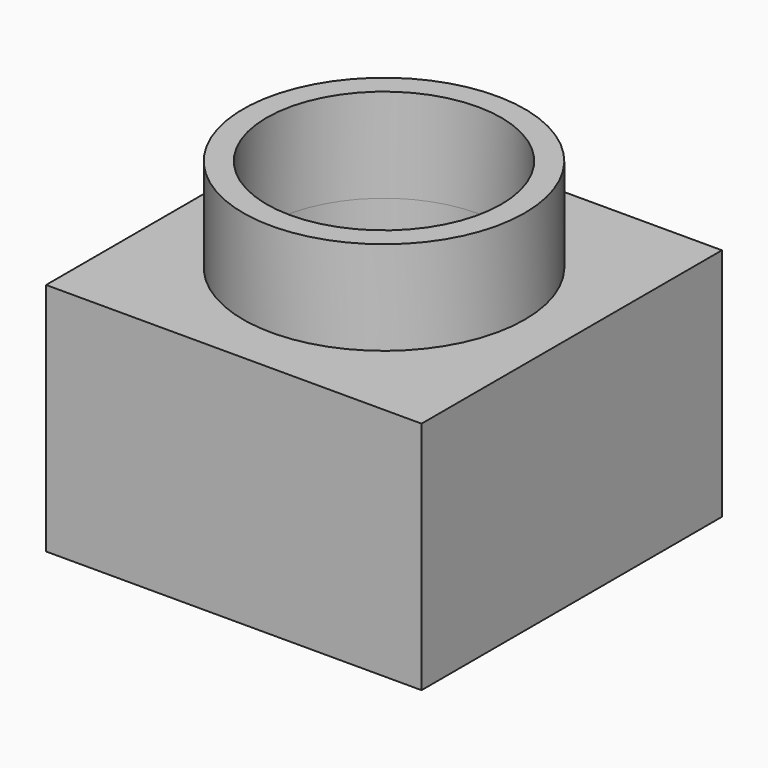
from build123d import *

# Parameters (mm, degrees)
F0_W      = 101.6
F0_H      = 101.6
F1_DEPTH  = 63.5
F2_R      = 38.1
F2_R_2    = 31.75
F3_DEPTH  = 25.4
F3_FACE_R = 31.75
F4_DEPTH  = 63.5


with BuildPart() as f1:
    # F0 (on Top) → F1 (new body)
    with BuildSketch(Plane.XY):
        with Locations((-11.520282, 4.038428)):
            Rectangle(F0_W, F0_H)
    extrude(amount=F1_DEPTH)

    # F2 (on face) → F3 (join)
    with BuildSketch(Plane.XY.offset(63.5)):
        with Locations((-11.520282, 4.038428)):
            Circle(F2_R)
        with Locations((-11.520282, 4.038428)):
            Circle(F2_R_2, mode=Mode.SUBTRACT)
    extrude(amount=F3_DEPTH)

    # F3_face (on face) → F4 (cut)
    with BuildSketch(Plane(origin=(-11.520282, 4.038428, 63.5), x_dir=(1, 0, 0), z_dir=(0, 0, 1))):
        Circle(F3_FACE_R)
    extrude(amount=-F4_DEPTH, mode=Mode.SUBTRACT)


solid = f1.part
